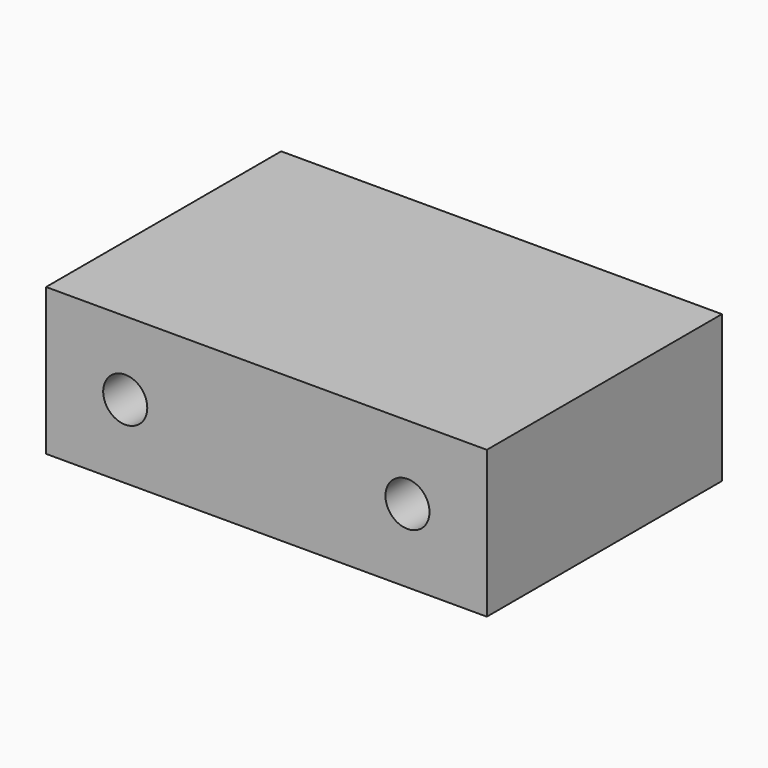
from build123d import *

# Parameters (mm, degrees)
F0_W     = 30
F0_H     = 10
F1_DEPTH = 20
F3_R     = 1.5
F4_DEPTH = 10
F5_DEPTH = 10


with BuildPart() as f1:
    # F0 (on Front) → F1 (new body)
    with BuildSketch(Plane.XZ):
        Rectangle(F0_W, F0_H)
    extrude(amount=F1_DEPTH)

    # F3 (on face) → F4 (cut)
    with BuildSketch(Plane.XZ.offset(20)):
        with Locations((9.597428, 0)):
            Circle(F3_R)
    extrude(amount=-F4_DEPTH, mode=Mode.SUBTRACT)

    # F3 (on face) → F5 (cut)
    with BuildSketch(Plane.XZ.offset(20)):
        with Locations((-9.612025, 0)):
            Circle(F3_R)
    extrude(amount=-F5_DEPTH, mode=Mode.SUBTRACT)


solid = f1.part
